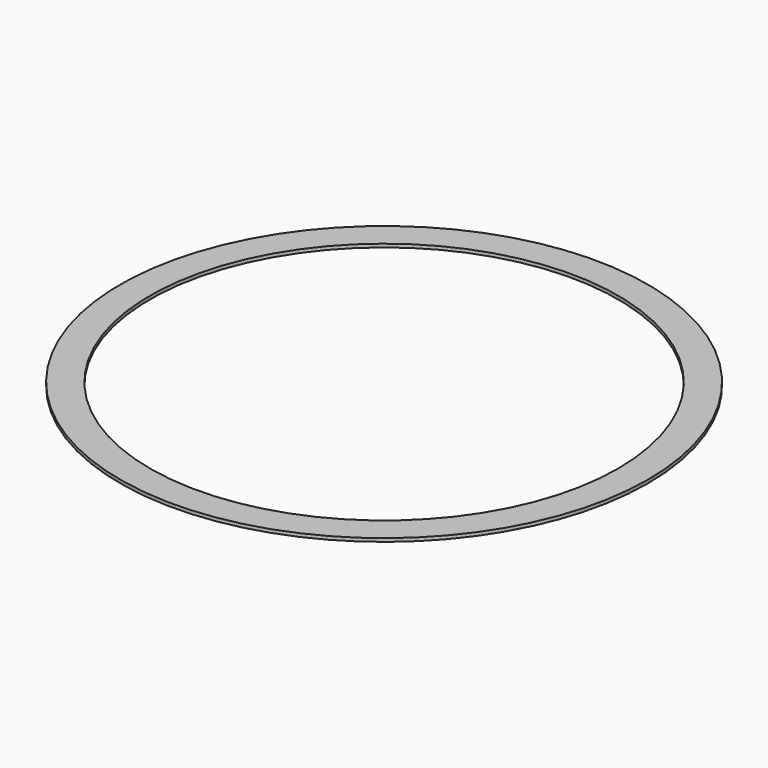
from build123d import *

# Parameters (mm, degrees)
SKETCH_R   = 39.75
SKETCH_R_2 = 35.25
PAD_DEPTH  = 0.5


with BuildPart() as part:
    # Sketch → Pad (new body)
    with BuildSketch(Plane.XY):
        Circle(SKETCH_R)
        Circle(SKETCH_R_2, mode=Mode.SUBTRACT)
    extrude(amount=PAD_DEPTH)


solid = part.part
